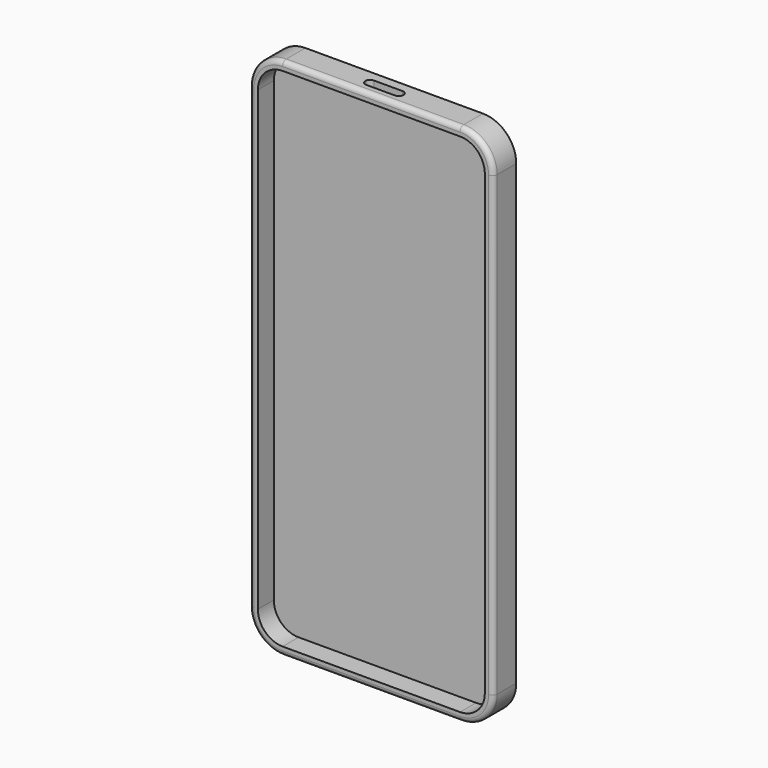
from build123d import *

# Parameters (mm, degrees)
F1_DEPTH = 7.62
F3_T     = -2.286
F5_DEPTH = 15.5702
F6_R     = 1.27


with BuildPart() as f1:
    # F0 (on Front) → F1 (new body)
    with BuildSketch(Plane.XZ):
        with BuildLine():
            Line((23.2504412389, 63.8689214671), (-24.1253591931, 63.8689214671))
            ThreePointArc((-24.1253591931, 63.8689214671), (-30.4115384778, 61.2651007518), (-33.0153591931, 54.9789214671))
            Line((-33.0153591931, 54.9789214671), (-33.0153591931, -67.0640870786))
            ThreePointArc((-33.0153591931, -67.0640870786), (-30.4115384778, -73.3502663633), (-24.1253591931, -75.9540870786))
            Line((-24.1253591931, -75.9540870786), (23.2504412389, -75.9540870786))
            ThreePointArc((23.2504412389, -75.9540870786), (29.5366205236, -73.3502663633), (32.1404412389, -67.0640870786))
            Line((32.1404412389, -67.0640870786), (32.1404412389, 54.9789214671))
            ThreePointArc((32.1404412389, 54.9789214671), (29.5366205236, 61.2651007518), (23.2504412389, 63.8689214671))
        make_face()
    extrude(amount=F1_DEPTH)

    # F3
    f3_openings = [f1.faces().sort_by_distance(p)[0] for p in [
        (-0.437459, -7.62, -6.042583),
    ]]
    offset(amount=F3_T, openings=f3_openings)

    # F4 (on face) → F5 (cut)
    with BuildSketch(Plane.XY.offset(63.8689214671)):
        with BuildLine():
            Line((3.8106236157, -2.5396881921), (-3.81, -2.5396881921))
            ThreePointArc((-3.81, -2.5396881921), (-4.7080256121, -2.91166258), (-5.08, -3.8096881921))
            Line((-5.08, -3.8096881921), (-5.08, -3.8103118079))
            ThreePointArc((-5.08, -3.8103118079), (-4.7080256121, -4.70833742), (-3.81, -5.0803118079))
            Line((-3.81, -5.0803118079), (3.8106236157, -5.0803118079))
            ThreePointArc((3.8106236157, -5.0803118079), (4.7086492278, -4.70833742), (5.0806236157, -3.8103118079))
            Line((5.0806236157, -3.8103118079), (5.0806236157, -3.8096881921))
            ThreePointArc((5.0806236157, -3.8096881921), (4.7086492278, -2.91166258), (3.8106236157, -2.5396881921))
        make_face()
    extrude(amount=-F5_DEPTH, mode=Mode.SUBTRACT)

    # F6
    f6_edges = [f1.edges().sort_by_distance(p)[0] for p in [
        (-0.437459, -7.62, -75.954087),
        (29.536621, -7.62, -73.350266),
        (32.140441, -7.62, -6.042583),
        (29.536621, -7.62, 61.265101),
        (-0.437459, -7.62, 63.868921),
        (-30.411538, -7.62, -73.350266),
        (-33.015359, -7.62, -6.042583),
    ]]
    fillet(f6_edges, radius=F6_R)


solid = f1.part
